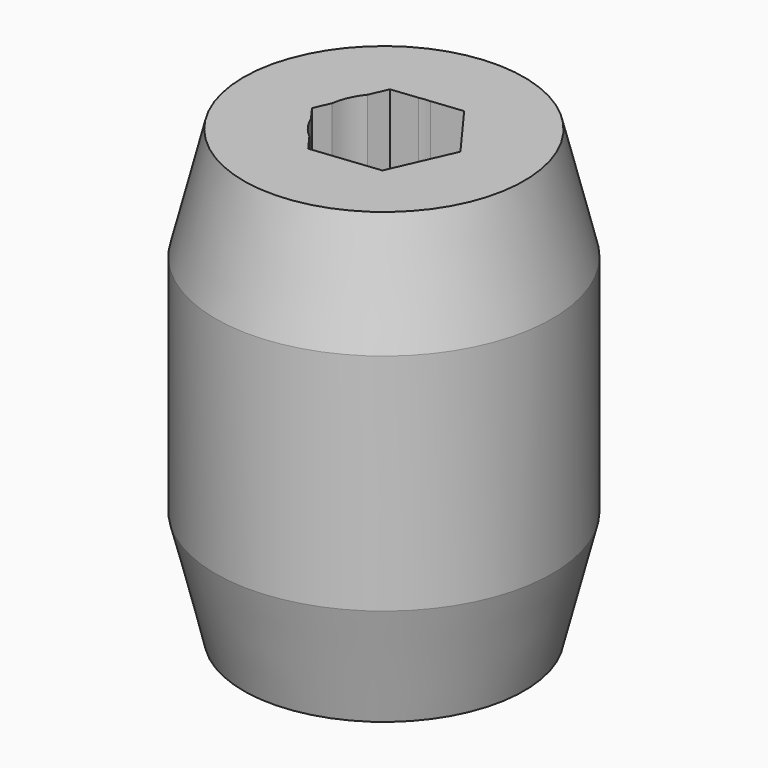
from build123d import *

# Parameters (mm, degrees)
F3_DEPTH      = 50.8
F3_DEPTH_BACK = -50.8


with BuildPart() as f1:
    # F0 (on Front) → F1 (revolve)
    with BuildSketch(Plane.XZ):
        Polygon((-16.134506, -25.27852), (-6.990506, -25.27852), (-6.990506, 25.52148), (-16.134506, 25.52148), (-19.309506, 12.82148), (-19.309506, -12.57852), align=None)
    revolve(axis=Axis((-0.259506, 0, -0.29264), (0, 0, 1)))

    # F2 (on Top) → F3 (cut, two sides)
    with BuildSketch(Plane.XY) as f3_sk:
        Polygon((7.726794, 0.839726), (3.136173, 7.111463), (-4.590621, 6.271737), (-7.726794, -0.839726), (-3.136173, -7.111463), (4.590621, -6.271737), align=None)
    extrude(amount=-F3_DEPTH, mode=Mode.SUBTRACT)
    extrude(f3_sk.sketch, amount=-F3_DEPTH_BACK, mode=Mode.SUBTRACT)


solid = f1.part
